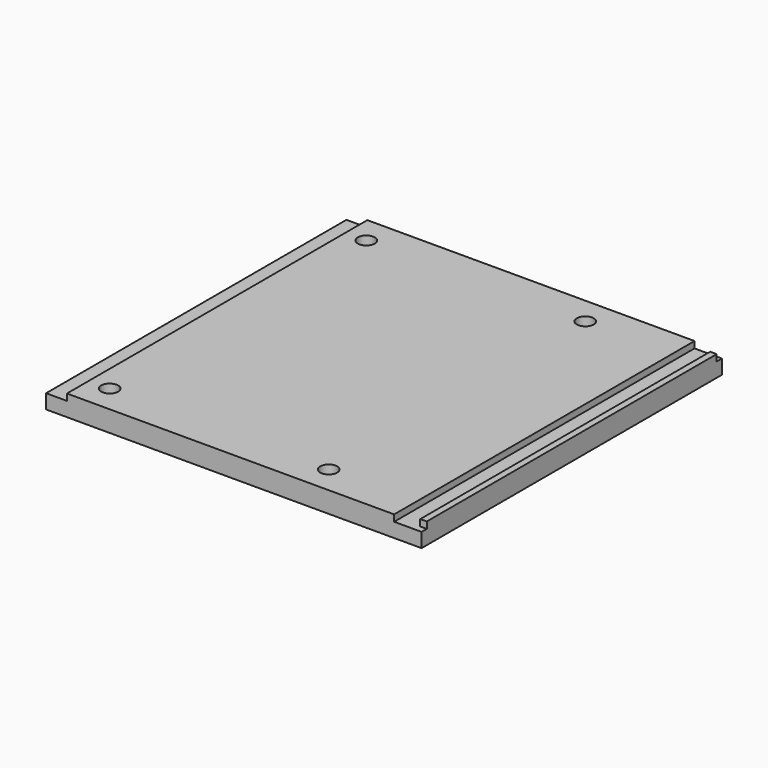
from build123d import *

# Parameters (mm, degrees)
F0_W           = 72
F0_H           = 72
F1_DEPTH       = 2.75
F2_W           = 62.75
F2_H           = 72
F2_W_2         = 1.25
F3_DEPTH       = 1.25
F5_D           = 3.25
F5_DEPTH       = 8
F5_CBORE_D     = 6
F5_CBORE_DEPTH = 2
F6_W           = 1.25
F6_H           = 1.25
F7_DEPTH       = 1.25


with BuildPart() as f1:
    # F0 (on Top) → F1 (new body)
    with BuildSketch(Plane.XY):
        Rectangle(F0_W, F0_H)
    extrude(amount=F1_DEPTH)

    # F2 (on face) → F3 (join)
    with BuildSketch(Plane.XY.offset(2.75)):
        with Locations((-0.625, 0)):
            Rectangle(F2_W, F2_H)
        with Locations((35.375, 0)):
            Rectangle(F2_W_2, F2_H)
    extrude(amount=F3_DEPTH)

    # F5
    with Locations(Plane(origin=(0, 0, 0), x_dir=(1, 0, 0), z_dir=(0, 0, -1))):
        with Locations((-28, -30.75), (14, -30.75), (-28, 30.75), (14, 30.75)):
            CounterBoreHole(F5_D / 2, F5_CBORE_D / 2, F5_CBORE_DEPTH, depth=F5_DEPTH)

    # F6 (on face) → F7 (cut)
    with BuildSketch(Plane.XY.offset(4)):
        with Locations((35.375, 35.375)):
            Rectangle(F6_W, F6_H)
        with Locations((35.375, -35.375)):
            Rectangle(F6_W, F6_H)
    extrude(amount=-F7_DEPTH, mode=Mode.SUBTRACT)


solid = f1.part
